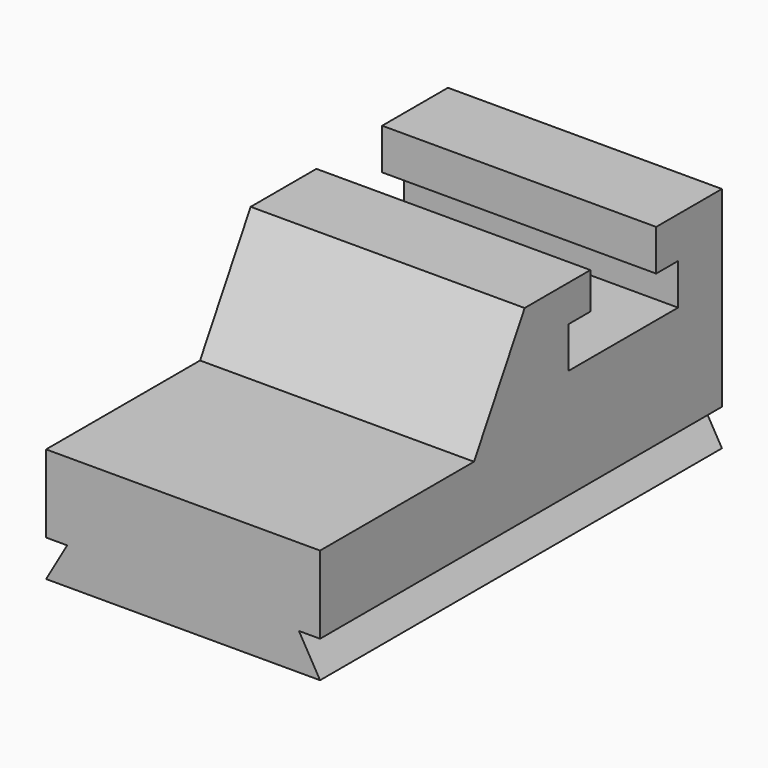
from build123d import *

# Parameters (mm, degrees)
F1_DEPTH = 1524
F3_DEPTH = 2794.001


with BuildPart() as f1:
    # F0 (on Right) → F1 (new body)
    with BuildSketch(Plane.YZ):
        Polygon((-317.885111, 589.299603), (-317.885111, -45.700397), (2476.114889, -45.700397), (2476.114889, 1224.299603), (2018.914889, 1224.299603), (2018.914889, 995.699603), (2171.314889, 995.699603), (2171.314889, 767.099603), (1409.314889, 767.099603), (1409.314889, 995.699603), (1561.714889, 995.699603), (1561.714889, 1198.899603), (1104.514889, 1198.899603), (752.562165, 589.299603), align=None)
    extrude(amount=F1_DEPTH)

    # F2 (on face) → F3 (cut, through all)
    with BuildSketch(Plane.XZ.offset(317.885111)):
        Polygon((0, 157.499603), (0, -45.700397), (117.317575, 157.499603), align=None)
        Polygon((1406.682425, 157.499603), (1524, -45.700397), (1524, 157.499603), align=None)
    extrude(amount=-F3_DEPTH, mode=Mode.SUBTRACT)


solid = f1.part
